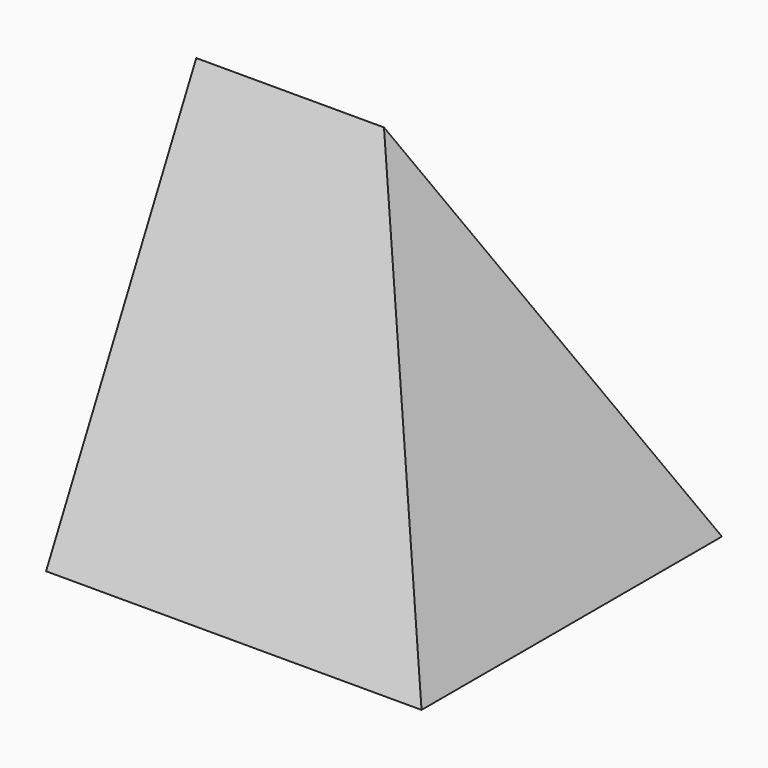
from build123d import *

# Parameters (mm, degrees)
F1_DEPTH = 40
F3_DEPTH = 20


with BuildPart() as f1:
    # F0 (on Right) → F1 (new body)
    with BuildSketch(Plane.YZ):
        Polygon((0, 40), (-20, 0), (20, 0), align=None)
    extrude(amount=F1_DEPTH)

    # F2 (on Front) → F3 (cut, symmetric)
    with BuildSketch(Plane.XZ):
        Polygon((20, 40), (40, 0), (40, 40), align=None)
    extrude(amount=F3_DEPTH, both=True, mode=Mode.SUBTRACT)


solid = f1.part
